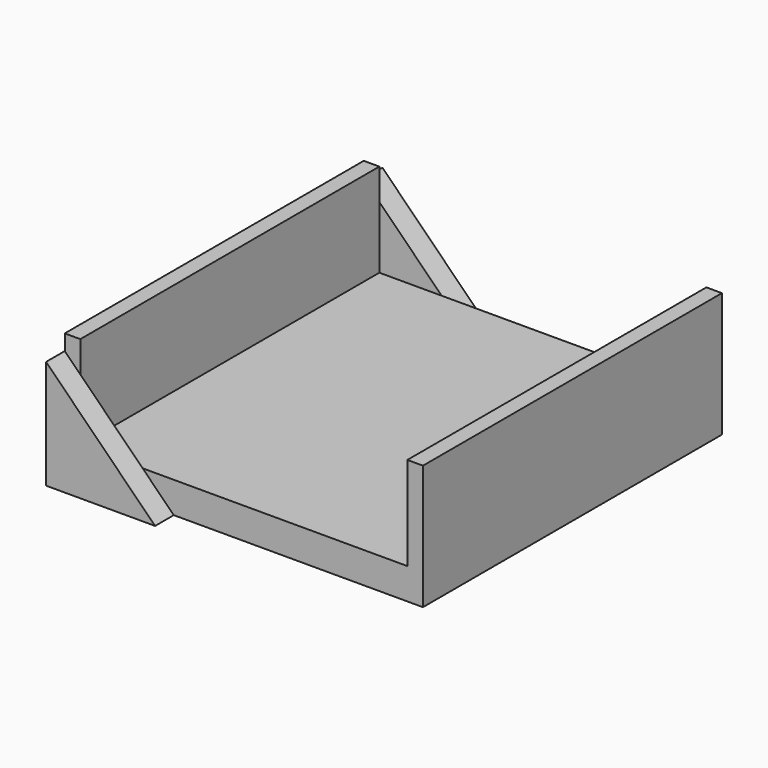
from build123d import *

# Parameters (mm, degrees)
F1_DEPTH = 8
F2_DEPTH = 2
F4_DEPTH = 1.5


with BuildPart() as f1:
    # F0 (on Top) → F1 (new body)
    with BuildSketch(Plane.XY):
        Polygon((0, -8), (0, 0), (-1, 0), (-1, -24), (0, -24), (0, -16), (0, -12), align=None)
    extrude(amount=F1_DEPTH)



with BuildPart() as f1b:
    # F0 (on Top) → F1, piece 2 (new body)
    with BuildSketch(Plane.XY):
        Polygon((22, 0), (21, 0), (21, -8), (21, -16), (21, -24), (22, -24), align=None)
    extrude(amount=F1_DEPTH)


with BuildPart() as f1_1:
    add(f1.part)

    add(f1b.part)  # F2 merges F1b
    # F0 (on Top) → F2 (join)
    with BuildSketch(Plane.XY):
        with BuildLine():
            Line((18, 0), (0, 0))
            Line((0, 0), (0, -8))
            Line((0, -8), (16.75, -8))
            ThreePointArc((16.75, -8), (17.1161165235, -7.1161165235), (18, -6.75))
            Line((18, -6.75), (18, 0))
        make_face()
        Polygon((0, -8), (0, 0), (-1, 0), (-1, -24), (0, -24), (0, -16), (0, -12), align=None)
        with BuildLine():
            Line((21, 0), (18, 0))
            Line((18, 0), (18, -6.75))
            ThreePointArc((18, -6.75), (18.8838834765, -7.1161165235), (19.25, -8))
            Line((19.25, -8), (21, -8))
            Line((21, -8), (21, 0))
        make_face()
        Polygon((22, 0), (21, 0), (21, -8), (21, -16), (21, -24), (22, -24), align=None)
        with BuildLine():
            Line((16.75, -16), (0, -16))
            Line((0, -16), (0, -24))
            Line((0, -24), (18, -24))
            Line((18, -24), (18, -17.25))
            ThreePointArc((18, -17.25), (17.1161165235, -16.8838834765), (16.75, -16))
        make_face()
        with BuildLine():
            Line((21, -24), (21, -16))
            Line((21, -16), (19.25, -16))
            ThreePointArc((19.25, -16), (18.8838834765, -16.8838834765), (18, -17.25))
            Line((18, -17.25), (18, -24))
            Line((18, -24), (21, -24))
        make_face()
        with BuildLine():
            Line((18, -12), (0, -12))
            Line((0, -12), (0, -16))
            Line((0, -16), (16.75, -16))
            ThreePointArc((16.75, -16), (17.1161165235, -15.1161165235), (18, -14.75))
            Line((18, -14.75), (18, -12))
        make_face()
        with BuildLine():
            Line((21, -16), (21, -8))
            Line((21, -8), (19.25, -8))
            ThreePointArc((19.25, -8), (18.8838834765, -8.8838834765), (18, -9.25))
            Line((18, -9.25), (18, -12))
            Line((18, -12), (18, -14.75))
            ThreePointArc((18, -14.75), (18.8838834765, -15.1161165235), (19.25, -16))
            Line((19.25, -16), (21, -16))
        make_face()
        with BuildLine():
            Line((16.75, -8), (0, -8))
            Line((0, -8), (0, -12))
            Line((0, -12), (18, -12))
            Line((18, -12), (18, -9.25))
            ThreePointArc((18, -9.25), (17.1161165235, -8.8838834765), (16.75, -8))
        make_face()
    extrude(amount=F2_DEPTH)

    # F3 (on face) → F4 (join)
    with BuildSketch(Plane.XZ.offset(24)):
        Polygon((4, 2), (0, 2), (0, 6), (-1, 7), (-1, 0), (6, 0), align=None)
        Polygon((0, 6), (0, 2), (4, 2), align=None)
    extrude(amount=F4_DEPTH)

    # F6: F1 across plane


with BuildPart() as f1_2:
    add(f1_1.part)
    add(f1_1.part.mirror(Plane.XZ.offset(12)))


solid = f1_2.part
